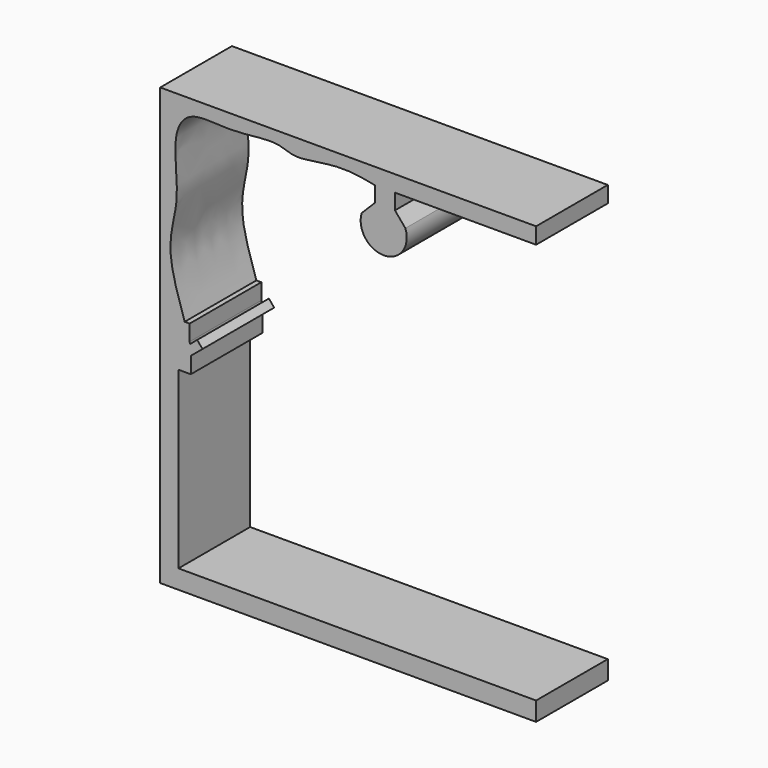
from build123d import *

# Parameters (mm, degrees)
F1_DEPTH = 25.4


with BuildPart() as f1:
    # F0 (on Front) → F1 (new body)
    with BuildSketch(Plane.XZ):
        with BuildLine():
            Line((-2.212257823, 58.2561306655), (-5.8993548155, 54.5690320432))
            ThreePointArc((-5.8993548155, 54.5690320432), (0.4058060109, 45.9998016197), (6.4524193294, 54.7533854842))
            Line((6.4524193294, 54.7533854842), (3.5027421545, 58.2561306655))
            Line((3.5027421545, 58.2561306655), (3.5027421545, 62.6806467772))
            add(Edge.make_bspline(
                [(-2.212257823, 62.6806467772), (0.2134967347, 62.183597229), (2.5392399354, 61.6619496876), (3.5027421545, 62.6806467772)],
                knots=[0.4272175368, 0.4272175368, 0.4272175368, 0.4272175368, 0.4599458664, 0.4599458664, 0.4599458664, 0.4599458664], degree=3))
            Line((-2.212257823, 62.6806467772), (-2.212257823, 58.2561306655))
        make_face()
        with BuildLine():
            add(Edge.make_bspline(
                [(-56.1175897394, 11.061290279), (-57.4421026407, 15.0113475285), (-62.1518201807, 29.0609512176), (-56.8055586939, 39.6756389092), (-60.0775304039, 56.0237716743), (-55.0280404148, 64.6865765345), (-42.8092741874, 62.3915307758), (-30.049589894, 64.9910239761), (-24.9190247488, 61.549112801), (-12.7829555943, 64.6711598854), (-5.566283552, 63.3679038485), (-2.212257823, 62.6806467772)],
                knots=[0.0256158531, 0.0256158531, 0.0256158531, 0.0256158531, 0.0606802371, 0.1154415351, 0.1692354746, 0.20745554, 0.254051957, 0.3027705946, 0.3351012498, 0.3819649537, 0.4272175368, 0.4272175368, 0.4272175368, 0.4272175368], degree=3))
            add(Edge.make_bspline(
                [(-2.212257823, 62.6806467772), (0.2134967347, 62.183597229), (2.5392399354, 61.6619496876), (3.5027421545, 62.6806467772)],
                knots=[0.4272175368, 0.4272175368, 0.4272175368, 0.4272175368, 0.4599458664, 0.4599458664, 0.4599458664, 0.4599458664], degree=3))
            add(Edge.make_bspline(
                [(3.5027421545, 62.6806467772), (4.1893433291, 63.4065803603), (4.1769369673, 67.0310825175), (-2.8490543096, 64.8300189818), (-12.7876938958, 66.4858188173), (-22.3076582062, 63.0154968392), (-31.2465775254, 67.2659261953), (-42.3456238294, 64.5851386583), (-54.3045181178, 65.64947354), (-59.2988133317, 63.0698735263), (-62.5418094545, 53.3702727032), (-59.9276703797, 35.0641566719), (-61.8593859607, 24.6719915086), (-61.6194732337, 15.6818162338), (-55.1614744754, 5.5406582034), (-54.7165155411, 5.8993548155)],
                knots=[0.4599458664, 0.4599458664, 0.4599458664, 0.4599458664, 0.4832683965, 0.5159967261, 0.5604479371, 0.602901816, 0.6440895933, 0.6905688027, 0.7374826131, 0.7673405324, 0.8092023906, 0.8684598686, 0.9125670322, 0.9561342875, 1, 1, 1, 1], degree=3))
            Line((-54.7165155411, 5.8993548155), (-54.7165155411, 6.5356749263))
            add(Edge.make_bspline(
                [(-54.7165155411, 6.5356749263), (-54.8864899618, 7.3902273291), (-55.4334838511, 9.021100696), (-56.1175897394, 11.061290279)],
                knots=[0.0075052319, 0.0075052319, 0.0075052319, 0.0075052319, 0.0256158531, 0.0256158531, 0.0256158531, 0.0256158531], degree=3))
        make_face()
        with BuildLine():
            add(Edge.make_bspline(
                [(3.5027421545, 62.6806467772), (4.1893433291, 63.4065803603), (4.1769369673, 67.0310825175), (-2.8490543096, 64.8300189818), (-12.7876938958, 66.4858188173), (-22.3076582062, 63.0154968392), (-31.2465775254, 67.2659261953), (-42.3456238294, 64.5851386583), (-54.3045181178, 65.64947354), (-59.2988133317, 63.0698735263), (-62.5418094545, 53.3702727032), (-59.9276703797, 35.0641566719), (-61.8593859607, 24.6719915086), (-61.6194732337, 15.6818162338), (-55.1614744754, 5.5406582034), (-54.7165155411, 5.8993548155)],
                knots=[0.4599458664, 0.4599458664, 0.4599458664, 0.4599458664, 0.4832683965, 0.5159967261, 0.5604479371, 0.602901816, 0.6440895933, 0.6905688027, 0.7374826131, 0.7673405324, 0.8092023906, 0.8684598686, 0.9125670322, 0.9561342875, 1, 1, 1, 1], degree=3))
            Line((3.5027421545, 62.6806467772), (43.5077399015, 62.6806467772))
            Line((43.5077399015, 62.6806467772), (43.5077399015, 67.2895163298))
            Line((43.5077399015, 67.2895163298), (-63.0493536592, 67.2895163298))
            Line((-63.0493536592, 67.2895163298), (-63.0493536592, -56.4125813544))
            Line((-63.0493536592, -56.4125813544), (43.5077399015, -56.4125813544))
            Line((43.5077399015, -56.4125813544), (43.5077399015, -51.0662905872))
            Line((43.5077399015, -51.0662905872), (-57.8874200583, -51.0662905872))
            Line((-57.8874200583, -51.0662905872), (-57.8874200583, -1.4748387039))
            Line((-57.8874200583, -1.4748387039), (-54.3846786022, -1.4748387039))
            Line((-54.3846786022, -1.4748387039), (-54.3846786022, 3.1340322457))
            Line((-54.3846786022, 3.1340322457), (-51.0662905872, 5.8993548155))
            Line((-51.0662905872, 5.8993548155), (-52.5622839252, 7.6945473249))
            Line((-52.5622839252, 7.6945473249), (-54.7165155411, 5.8993548155))
        make_face()
        with BuildLine():
            Line((-54.7165155411, 11.061290279), (-56.1175897394, 11.061290279))
            add(Edge.make_bspline(
                [(-54.7165155411, 6.5356749263), (-54.8864899618, 7.3902273291), (-55.4334838511, 9.021100696), (-56.1175897394, 11.061290279)],
                knots=[0.0075052319, 0.0075052319, 0.0075052319, 0.0075052319, 0.0256158531, 0.0256158531, 0.0256158531, 0.0256158531], degree=3))
            Line((-54.7165155411, 6.5356749263), (-54.7165155411, 11.061290279))
        make_face()
        with BuildLine():
            Line((-54.7165155411, 6.5356749263), (-54.7165155411, 5.8993548155))
            add(Edge.make_bspline(
                [(-54.7165155411, 5.8993548155), (-54.6403850103, 5.9607262396), (-54.646076354, 6.1815394256), (-54.7165155411, 6.5356749263)],
                knots=[0, 0, 0, 0, 0.0075052319, 0.0075052319, 0.0075052319, 0.0075052319], degree=3))
        make_face()
    extrude(amount=F1_DEPTH)


solid = f1.part
